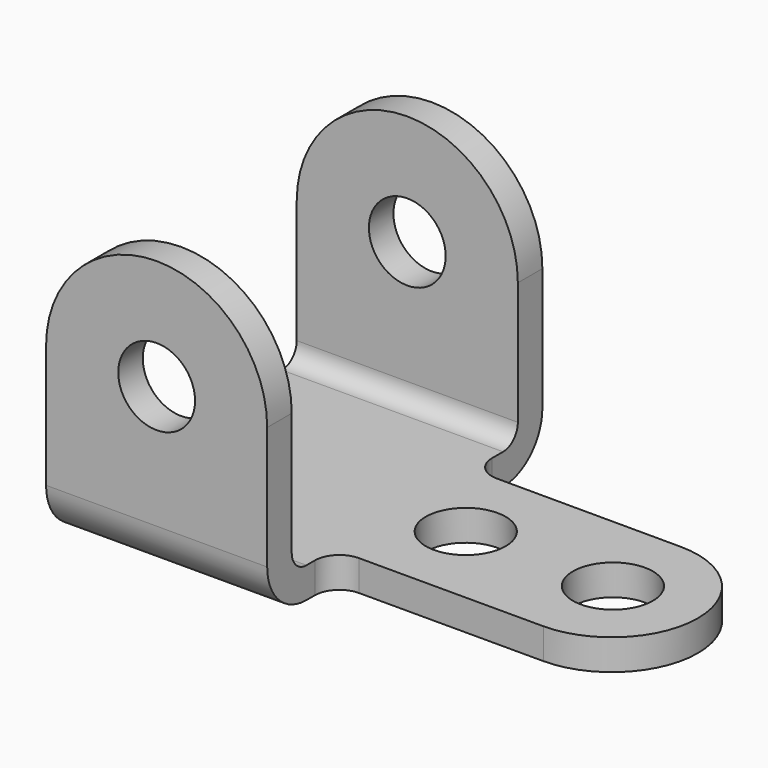
from build123d import *

# Parameters (mm, degrees)
F0_R     = 9.92251
F1_DEPTH = 44.45
F2_W     = 73.0504
F2_H     = 65.0875
F3_DEPTH = 57.151
F4_R     = 10.3251
F5_DEPTH = 7.9375
F6_R     = 12.7
F7_R     = 4.7625


with BuildPart() as f1:
    # F0 (on Front) → F1 (new body, symmetric)
    with BuildSketch(Plane.XZ):
        with BuildLine():
            Line((0, 44.45), (0, 0))
            Line((0, 0), (57.15, 0))
            Line((57.15, 0), (57.15, 44.45))
            ThreePointArc((57.15, 44.45), (28.575, 73.025), (0, 44.45))
        make_face()
        with Locations((28.575, 44.45)):
            Circle(F0_R, mode=Mode.SUBTRACT)
    extrude(amount=F1_DEPTH, both=True)

    # F2 (on Right) → F3 (cut, through all)
    with BuildSketch(Plane.YZ):
        with Locations((0, 40.48125)):
            Rectangle(F2_W, F2_H)
    extrude(amount=F3_DEPTH, mode=Mode.SUBTRACT)

    # F4 (on face) → F5 (join)
    with BuildSketch(Plane.XY.offset(7.9375)):
        with BuildLine():
            ThreePointArc((57.15, -29.063594), (59.009872, -24.573466), (63.5, -22.713594))
            Line((63.5, -22.713594), (111.125, -22.713594))
            ThreePointArc((111.125, -22.713594), (133.304453, -0.488594), (111.125, 21.736406))
            Line((111.125, 21.736406), (63.5, 21.834106))
            ThreePointArc((63.5, 21.834106), (59.009872, 23.693978), (57.15, 28.184106))
            Line((57.15, 28.184106), (57.15, -29.063594))
        make_face()
        with Locations((73.025, -0.149807)):
            Circle(F4_R, mode=Mode.SUBTRACT)
        with Locations((111.125, -0.227967)):
            Circle(F4_R, mode=Mode.SUBTRACT)
    extrude(amount=-F5_DEPTH)

    # F6
    f6_edges = [f1.edges().sort_by_distance(p)[0] for p in [
        (28.575, -44.45, 0),
        (28.575, 44.45, 0),
    ]]
    fillet(f6_edges, radius=F6_R)

    # F7
    f7_edges = [f1.edges().sort_by_distance(p)[0] for p in [
        (28.575, -36.5252, 7.9375),
        (28.575, 36.5252, 7.9375),
    ]]
    fillet(f7_edges, radius=F7_R)


solid = f1.part
